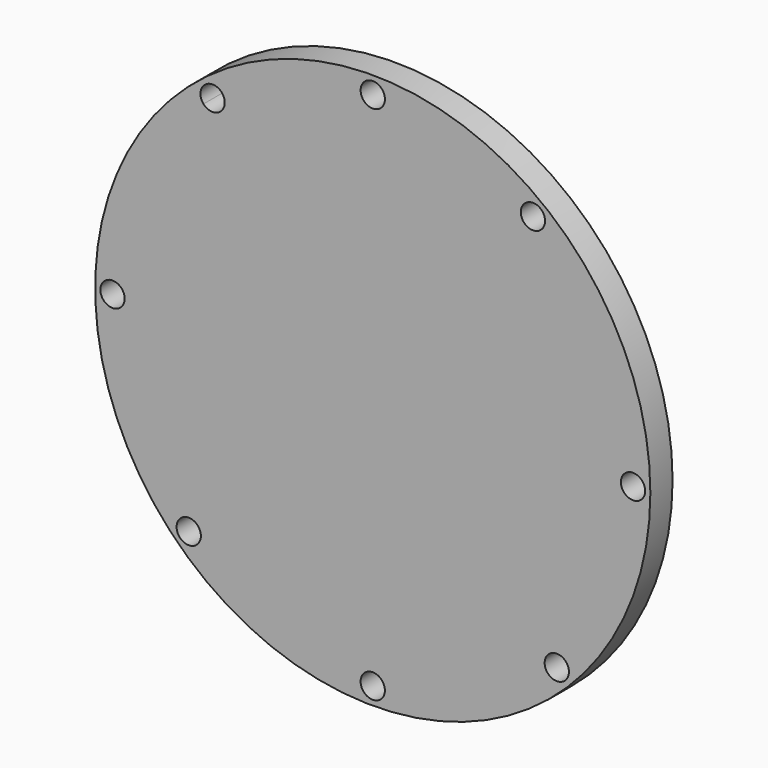
from build123d import *

# Parameters (mm, degrees)
F0_R     = 203.2
F0_R_2   = 8.89
F1_DEPTH = 20.32


with BuildPart() as f1:
    # F0 (on Front) → F1 (new body)
    with BuildSketch(Plane.XZ):
        Circle(F0_R)
        with Locations((-134.703841816, -134.703841816)):
            Circle(F0_R_2, mode=Mode.SUBTRACT)
        with Locations((0, -190.5)):
            Circle(F0_R_2, mode=Mode.SUBTRACT)
        with Locations((-190.5, 0)):
            Circle(F0_R_2, mode=Mode.SUBTRACT)
        with Locations((134.703841816, -134.703841816)):
            Circle(F0_R_2, mode=Mode.SUBTRACT)
        with Locations((190.5, 0)):
            Circle(F0_R_2, mode=Mode.SUBTRACT)
        with BuildLine():
            ThreePointArc((-123.8970573285, 144.2619540188), (-120.3869637363, 158.4652267944), (-108.347947169, 150.1516358339))
            ThreePointArc((-108.347947169, 150.1516358339), (-114.0889306017, 141.8380448734), (-123.8970573285, 144.2619540188))
        make_face(mode=Mode.SUBTRACT)
        with Locations((0, 190.5)):
            Circle(F0_R_2, mode=Mode.SUBTRACT)
        with Locations((117.237947169, 150.1516358339)):
            Circle(F0_R_2, mode=Mode.SUBTRACT)
    extrude(amount=F1_DEPTH)


solid = f1.part
